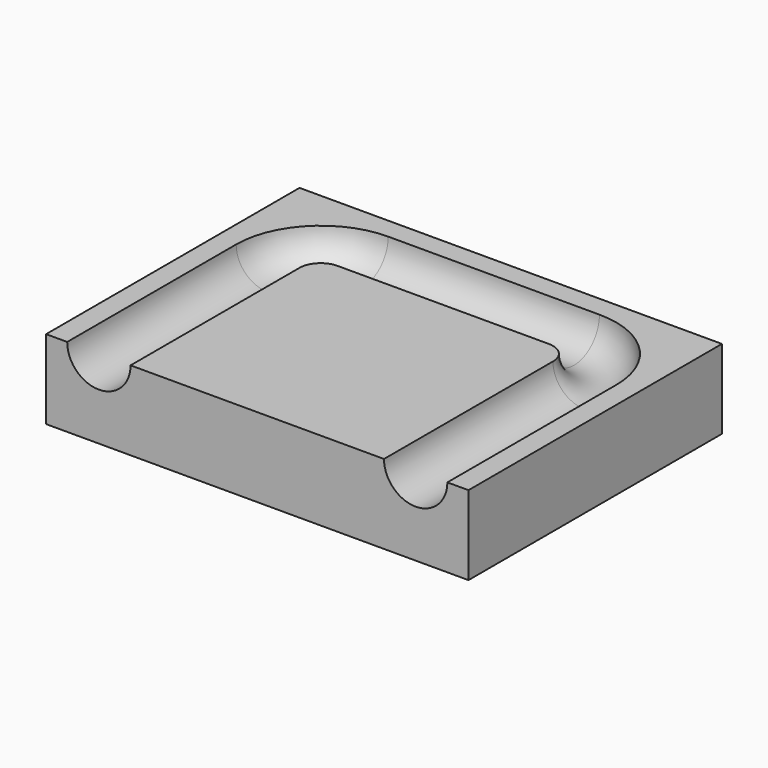
from build123d import *

# Parameters (mm, degrees)
F0_W     = 80
F0_H     = 60
F1_DEPTH = 15


with BuildPart() as f1:
    # F0 (on Top) → F1 (new body)
    with BuildSketch(Plane.XY):
        Rectangle(F0_W, F0_H)
    extrude(amount=F1_DEPTH)

    # F4: sweep along a path in F2
    with BuildLine(Plane.XY.offset(15)) as f4_path:
        Line((-30, -30), (-30, 10))
        ThreePointArc((-30, 10), (-27.071068, 17.071068), (-20, 20))
        Line((-20, 20), (20, 20))
        ThreePointArc((20, 20), (27.071068, 17.071068), (30, 10))
        Line((30, 10), (30, -30))
    # F3 (on face) → F4 (sweep, cut)
    with BuildSketch(Plane.XZ.offset(30)):
        with BuildLine():
            Line((-24, 15), (-36, 15))
            ThreePointArc((-36, 15), (-30, 9), (-24, 15))
        make_face()
    sweep(path=f4_path.line, mode=Mode.SUBTRACT)


solid = f1.part
